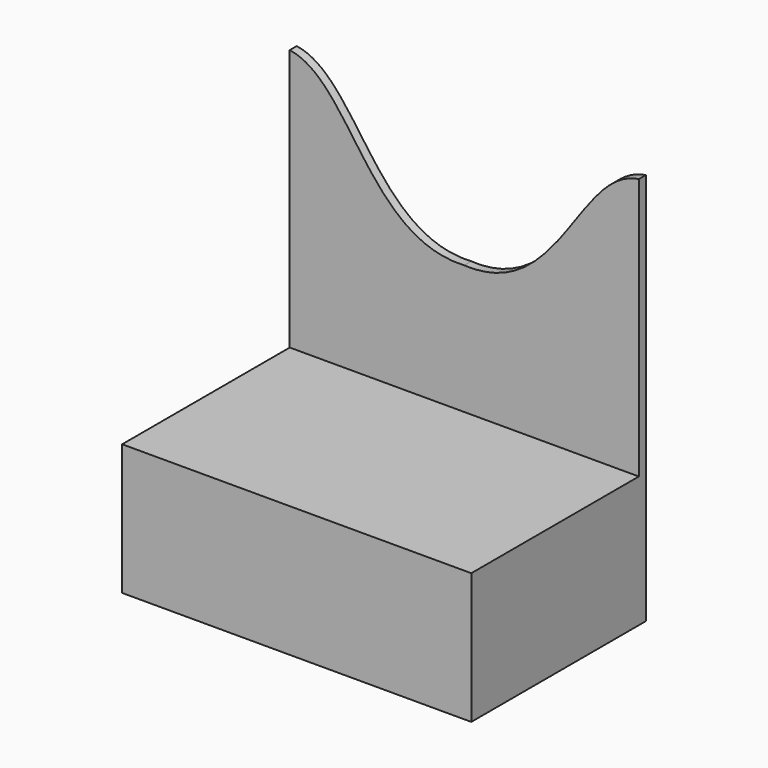
from build123d import *

# Parameters (mm, degrees)
F0_W     = 101.6
F0_H     = 38.1
F1_DEPTH = 63.5
F2_DEPTH = 2.54


with BuildPart() as f1:
    # F0 (on Front) → F1 (new body)
    with BuildSketch(Plane.XZ):
        with Locations((0, -38.1)):
            Rectangle(F0_W, F0_H)
    extrude(amount=F1_DEPTH)

    # F0 (on Front) → F2 (join)
    with BuildSketch(Plane.XZ):
        with BuildLine():
            add(Edge.make_bspline(
                [(-50.8, 57.15), (-33.012681, 54.493207), (-27.839616, 17.020509), (0, 18.542)],
                knots=[0, 0, 0, 0, 63.806094, 63.806094, 63.806094, 63.806094], degree=3))
            Line((-50.8, 57.15), (-50.8, -19.05))
            Line((-50.8, -19.05), (50.8, -19.05))
            Line((50.8, -19.05), (50.8, 57.15))
            add(Edge.make_bspline(
                [(50.8, 57.15), (33.012681, 54.493207), (27.839616, 17.020509), (0, 18.542)],
                knots=[0, 0, 0, 0, 63.806094, 63.806094, 63.806094, 63.806094], degree=3))
        make_face()
    extrude(amount=F2_DEPTH)


solid = f1.part
